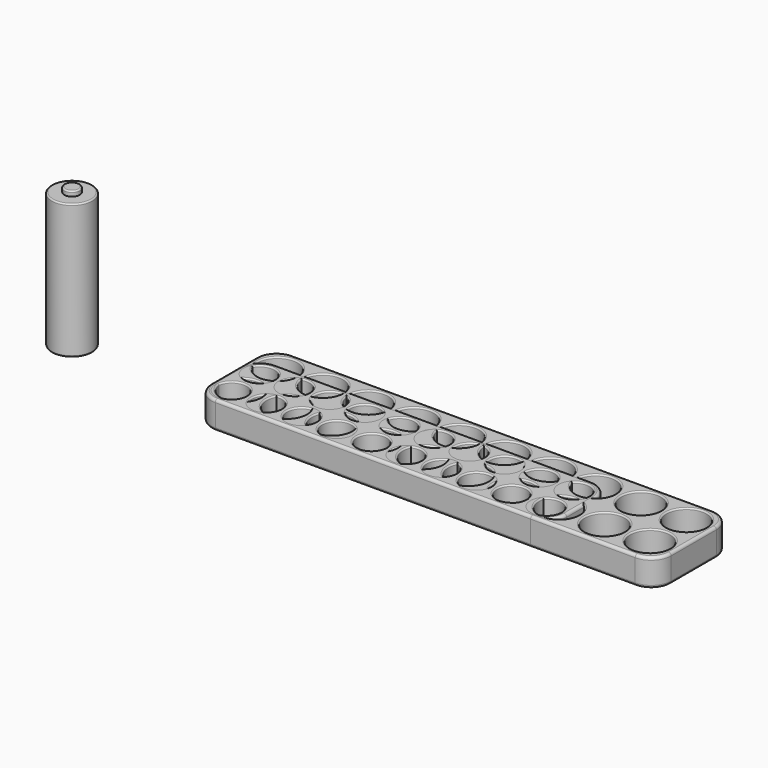
from build123d import *

# Parameters (mm, degrees)
SKETCH001_R     = 7.35
PAD_DEPTH       = 49
SKETCH002_R     = 2.8
PAD001_DEPTH    = 1.8
FILLET_R        = 0.5
FILLET001_R     = 0.5
FILLET002_R     = 0.5
PAD002_DEPTH    = 10
SKETCH003_R     = 7.25
POCKET_DEPTH    = 9
FILLET003_R     = 1
FILLET004_R     = 0.5
FILLET005_R     = 1
PAD003_DEPTH    = 10
SKETCH005_R     = 5.35
POCKET001_DEPTH = 9
FILLET006_R     = 1
FILLET007_R     = 0.5
FILLET008_R     = 1


with BuildPart() as obj1:
    # Sketch001 → Pad (new body)
    with BuildSketch(Plane.XY):
        with Locations((-57.230431, 15.580759)):
            Circle(SKETCH001_R)
    extrude(amount=PAD_DEPTH)

    # Sketch002 (on Face3 of Pad) → Pad001 (join)
    with BuildSketch(Plane.XY.offset(49)):
        with Locations((-57.230431, 15.580759)):
            Circle(SKETCH002_R)
    extrude(amount=PAD001_DEPTH)

    # Fillet
    fillet_edges = [obj1.edges().sort_by_distance(p)[0] for p in [
        (-60.030431, 15.580759, 50.8),
    ]]
    fillet(fillet_edges, radius=FILLET_R)

    # Fillet001
    fillet001_edges = [obj1.edges().sort_by_distance(p)[0] for p in [
        (-64.580431, 15.580759, 49),
    ]]
    fillet(fillet001_edges, radius=FILLET001_R)

    # Fillet002
    fillet002_edges = [obj1.edges().sort_by_distance(p)[0] for p in [
        (-64.580431, 15.580759, 0),
    ]]
    fillet(fillet002_edges, radius=FILLET002_R)


with BuildPart() as obj2:
    # Sketch → Pad002 (new body)
    with BuildSketch(Plane.XY):
        with BuildLine():
            Line((0, 27.75), (0, 7.25))
            ThreePointArc((0, 7.25), (2.123476, 2.123476), (7.25, 0))
            Line((7.25, 0), (159.72, 0))
            ThreePointArc((159.72, 0), (164.846524, 2.123476), (166.97, 7.25))
            Line((166.97, 7.25), (166.97, 27.75))
            ThreePointArc((166.97, 27.75), (164.846524, 32.876524), (159.72, 35))
            Line((159.72, 35), (7.25, 35))
            ThreePointArc((7.25, 35), (2.123476, 32.876524), (0, 27.75))
        make_face()
    extrude(amount=PAD002_DEPTH)

    # Sketch003 (on Face10 of Pad002) → Pocket (cut)
    with BuildSketch(Plane.XY.offset(10)):
        with Locations((9.220242, 9.25)):
            Circle(SKETCH003_R)
        with Locations((25.720242, 9.25)):
            Circle(SKETCH003_R)
        with Locations((42.220242, 9.25)):
            Circle(SKETCH003_R)
        with Locations((58.720242, 9.25)):
            Circle(SKETCH003_R)
        with Locations((75.220242, 9.25)):
            Circle(SKETCH003_R)
        with Locations((91.720242, 9.25)):
            Circle(SKETCH003_R)
        with Locations((108.220242, 9.25)):
            Circle(SKETCH003_R)
        with Locations((124.720242, 9.25)):
            Circle(SKETCH003_R)
        with Locations((141.220242, 9.25)):
            Circle(SKETCH003_R)
        with Locations((157.720242, 9.25)):
            Circle(SKETCH003_R)
        with Locations((9.22, 25.75)):
            Circle(SKETCH003_R)
        with Locations((25.72, 25.75)):
            Circle(SKETCH003_R)
        with Locations((42.22, 25.75)):
            Circle(SKETCH003_R)
        with Locations((58.72, 25.75)):
            Circle(SKETCH003_R)
        with Locations((75.22, 25.75)):
            Circle(SKETCH003_R)
        with Locations((91.72, 25.75)):
            Circle(SKETCH003_R)
        with Locations((108.22, 25.75)):
            Circle(SKETCH003_R)
        with Locations((124.72, 25.75)):
            Circle(SKETCH003_R)
        with Locations((141.22, 25.75)):
            Circle(SKETCH003_R)
        with Locations((157.72, 25.75)):
            Circle(SKETCH003_R)
    extrude(amount=-POCKET_DEPTH, mode=Mode.SUBTRACT)

    # Fillet003
    fillet003_edges = [obj2.edges().sort_by_distance(p)[0] for p in [
        (83.485, 0, 10),
        (2.123476, 2.123476, 10),
        (0, 17.5, 10),
        (2.123476, 32.876524, 10),
        (83.485, 35, 10),
        (164.846524, 32.876524, 10),
        (166.97, 17.5, 10),
        (164.846524, 2.123476, 10),
    ]]
    fillet(fillet003_edges, radius=FILLET003_R)

    # Fillet004
    fillet004_edges = [obj2.edges().sort_by_distance(p)[0] for p in [
        (1.97, 25.75, 10),
        (1.970242, 9.25, 10),
        (18.470242, 9.25, 10),
        (18.47, 25.75, 10),
        (34.97, 25.75, 10),
        (34.970242, 9.25, 10),
        (51.470242, 9.25, 10),
        (51.47, 25.75, 10),
        (67.97, 25.75, 10),
        (67.970242, 9.25, 10),
        (84.470242, 9.25, 10),
        (84.47, 25.75, 10),
        (100.97, 25.75, 10),
        (100.970242, 9.25, 10),
        (117.470242, 9.25, 10),
        (117.47, 25.75, 10),
        (133.97, 25.75, 10),
        (133.970242, 9.25, 10),
        (150.47, 25.75, 10),
        (150.470242, 9.25, 10),
    ]]
    fillet(fillet004_edges, radius=FILLET004_R)

    # Fillet005
    fillet005_edges = [obj2.edges().sort_by_distance(p)[0] for p in [
        (0, 17.5, 0),
        (2.123476, 2.123476, 0),
        (83.485, 0, 0),
        (164.846524, 2.123476, 0),
        (166.97, 17.5, 0),
        (164.846524, 32.876524, 0),
        (83.485, 35, 0),
        (2.123476, 32.876524, 0),
    ]]
    fillet(fillet005_edges, radius=FILLET005_R)


with BuildPart() as aaaholder:
    # Sketch004 → Pad003 (new body)
    with BuildSketch(Plane.XY):
        with BuildLine():
            Line((0, 20.15), (0, 7.25))
            ThreePointArc((0, 7.25), (2.123476, 2.123476), (7.25, 0))
            Line((7.25, 0), (121.75, 0))
            ThreePointArc((121.75, 0), (126.876524, 2.123476), (129, 7.25))
            Line((129, 7.25), (129, 20.15))
            ThreePointArc((129, 20.15), (126.876524, 25.276524), (121.75, 27.4))
            Line((121.75, 27.4), (7.25, 27.4))
            ThreePointArc((7.25, 27.4), (2.123476, 25.276524), (0, 20.15))
        make_face()
    extrude(amount=PAD003_DEPTH)

    # Sketch005 (on Face10 of Pad003) → Pocket001 (cut)
    with BuildSketch(Plane.XY.offset(10)):
        with Locations((7.35, 7.35)):
            Circle(SKETCH005_R)
        with Locations((20.05, 7.35)):
            Circle(SKETCH005_R)
        with Locations((32.75, 7.35)):
            Circle(SKETCH005_R)
        with Locations((45.45, 7.35)):
            Circle(SKETCH005_R)
        with Locations((58.15, 7.35)):
            Circle(SKETCH005_R)
        with Locations((70.85, 7.35)):
            Circle(SKETCH005_R)
        with Locations((83.55, 7.35)):
            Circle(SKETCH005_R)
        with Locations((96.25, 7.35)):
            Circle(SKETCH005_R)
        with Locations((108.95, 7.35)):
            Circle(SKETCH005_R)
        with Locations((121.65, 7.35)):
            Circle(SKETCH005_R)
        with Locations((7.35, 20.05)):
            Circle(SKETCH005_R)
        with Locations((20.05, 20.05)):
            Circle(SKETCH005_R)
        with Locations((32.75, 20.05)):
            Circle(SKETCH005_R)
        with Locations((45.45, 20.05)):
            Circle(SKETCH005_R)
        with Locations((58.15, 20.05)):
            Circle(SKETCH005_R)
        with Locations((70.85, 20.05)):
            Circle(SKETCH005_R)
        with Locations((83.55, 20.05)):
            Circle(SKETCH005_R)
        with Locations((96.25, 20.05)):
            Circle(SKETCH005_R)
        with Locations((108.95, 20.05)):
            Circle(SKETCH005_R)
        with Locations((121.65, 20.05)):
            Circle(SKETCH005_R)
    extrude(amount=-POCKET001_DEPTH, mode=Mode.SUBTRACT)

    # Fillet006
    fillet006_edges = [aaaholder.edges().sort_by_distance(p)[0] for p in [
        (64.5, 0, 10),
        (2.123476, 2.123476, 10),
        (0, 13.7, 10),
        (2.123476, 25.276524, 10),
        (64.5, 27.4, 10),
        (126.876524, 25.276524, 10),
        (129, 13.7, 10),
        (126.876524, 2.123476, 10),
    ]]
    fillet(fillet006_edges, radius=FILLET006_R)

    # Fillet007
    fillet007_edges = [aaaholder.edges().sort_by_distance(p)[0] for p in [
        (2, 20.05, 10),
        (2, 7.35, 10),
        (14.7, 7.35, 10),
        (14.7, 20.05, 10),
        (27.4, 20.05, 10),
        (27.4, 7.35, 10),
        (40.1, 7.35, 10),
        (40.1, 20.05, 10),
        (52.8, 20.05, 10),
        (52.8, 7.35, 10),
        (65.5, 7.35, 10),
        (65.5, 20.05, 10),
        (78.2, 20.05, 10),
        (78.2, 7.35, 10),
        (90.9, 7.35, 10),
        (90.9, 20.05, 10),
        (103.6, 20.05, 10),
        (103.6, 7.35, 10),
        (116.3, 20.05, 10),
        (116.3, 7.35, 10),
    ]]
    fillet(fillet007_edges, radius=FILLET007_R)

    # Fillet008
    fillet008_edges = [aaaholder.edges().sort_by_distance(p)[0] for p in [
        (0, 13.7, 0),
        (2.123476, 2.123476, 0),
        (64.5, 0, 0),
        (126.876524, 2.123476, 0),
        (129, 13.7, 0),
        (126.876524, 25.276524, 0),
        (64.5, 27.4, 0),
        (2.123476, 25.276524, 0),
    ]]
    fillet(fillet008_edges, radius=FILLET008_R)


solid = Compound([obj1.part, obj2.part, aaaholder.part])
